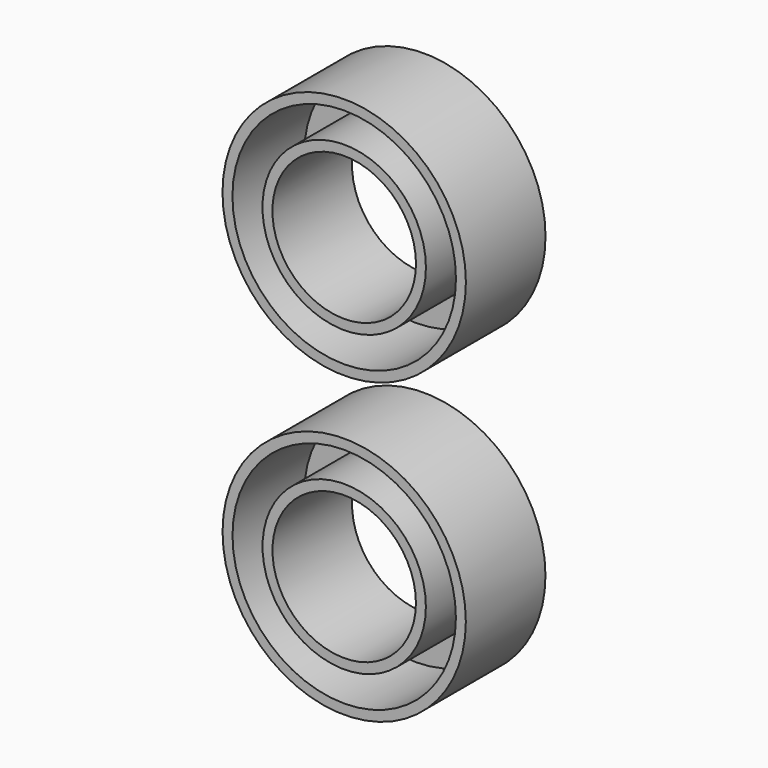
from build123d import *

# Parameters (mm, degrees)
F0_R     = 31.0645198861
F0_R_2   = 18.3207695428
F1_DEPTH = 25.4
F0_R_3   = 31.0493317599
F0_R_4   = 18.3069012544
F2_T     = -2.54
F2_2_T   = -2.54


with BuildPart() as f1:
    # F0 (on Front) → F1 (new body)
    with BuildSketch(Plane.XZ):
        with Locations((-38.5233350098, 38.7927293777)):
            Circle(F0_R)
        with Locations((-38.5233350098, 38.7927293777)):
            Circle(F0_R_2, mode=Mode.SUBTRACT)
    extrude(amount=F1_DEPTH)

    # F2
    f2_openings = [f1.faces().sort_by_distance(p)[0] for p in [
        (-68.709218, -25.4, 38.792729),
    ]]
    offset(amount=F2_T, openings=f2_openings)


with BuildPart() as f1b:
    # F0 (on Front) → F1, piece 2 (new body)
    with BuildSketch(Plane.XZ):
        with Locations((-38.5233350098, -37.4457575381)):
            Circle(F0_R_3)
        with Locations((-38.5233350098, -37.4457575381)):
            Circle(F0_R_4, mode=Mode.SUBTRACT)
    extrude(amount=F1_DEPTH)

    # F2#2
    f2_2_openings = [f1b.faces().sort_by_distance(p)[0] for p in [
        (-68.694459, -25.4, -37.445758),
    ]]
    offset(amount=F2_2_T, openings=f2_2_openings)


solid = Compound([f1.part, f1b.part])
